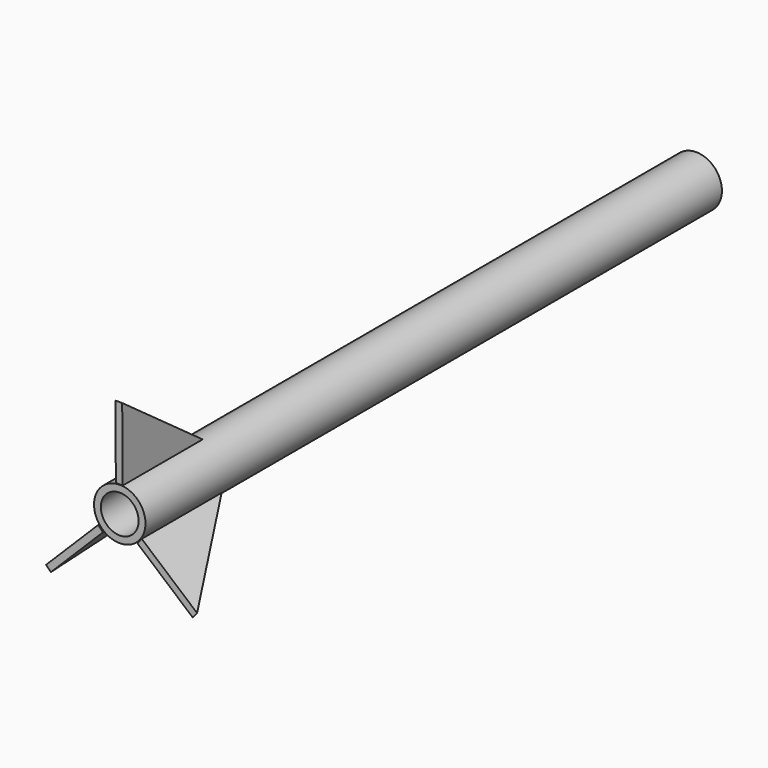
from build123d import *

# Parameters (mm, degrees)
F0_R     = 9.525
F1_DEPTH = 133.35
F2_R     = 6.985
F3_DEPTH = 133.35
F5_DEPTH = 1.27
F6_ANGLE = 135
F7_ANGLE = 95


with BuildPart() as f1:
    # F0 (on Front) → F1 (new body, symmetric)
    with BuildSketch(Plane.XZ):
        Circle(F0_R)
    extrude(amount=F1_DEPTH, both=True)

    # F2 (on Front) → F3 (cut, symmetric)
    with BuildSketch(Plane.XZ):
        Circle(F2_R)
    extrude(amount=F3_DEPTH, both=True, mode=Mode.SUBTRACT)


with BuildPart() as f5:
    # F4 (on Right) → F5 (new body, symmetric)
    with BuildSketch(Plane.YZ):
        Polygon((-133.805722, 36.77376), (-133.548575, 9.785396), (-96.591169, 9.785396), align=None)
    extrude(amount=F5_DEPTH, both=True)


with BuildPart() as f6_1:
    # F6: copy of F5
    add(f5.part.rotate(Axis((0, -133.35, 0), (0, -1, 0)), F6_ANGLE))


with BuildPart() as f7_1:
    # F7: copy of F6_1
    add(f6_1.part.rotate(Axis((0, -133.35, 0), (0, -1, 0)), F7_ANGLE))


solid = Compound([f1.part, f5.part, f6_1.part, f7_1.part])
